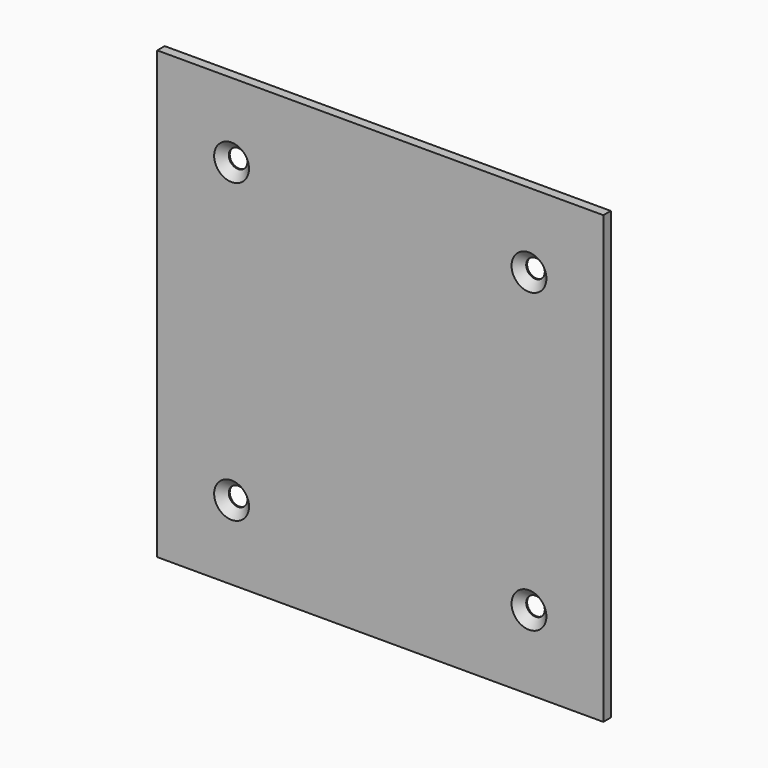
from build123d import *

# Parameters (mm, degrees)
F0_W           = 304.8
F0_H           = 304.8
F1_DEPTH       = 6.35
F3_D           = 12.7
F3_CSINK_D     = 23.8252
F3_CSINK_ANGLE = 90


with BuildPart() as f1:
    # F0 (on Front) → F1 (new body)
    with BuildSketch(Plane.XZ):
        Rectangle(F0_W, F0_H)
    extrude(amount=F1_DEPTH)

    # F3 (through all)
    with Locations(Plane.XZ.offset(6.35)):
        with Locations((-101.6, 101.6), (101.6, 101.6), (101.6, -101.6), (-101.6, -101.6)):
            CounterSinkHole(F3_D / 2, F3_CSINK_D / 2, counter_sink_angle=F3_CSINK_ANGLE)


solid = f1.part
